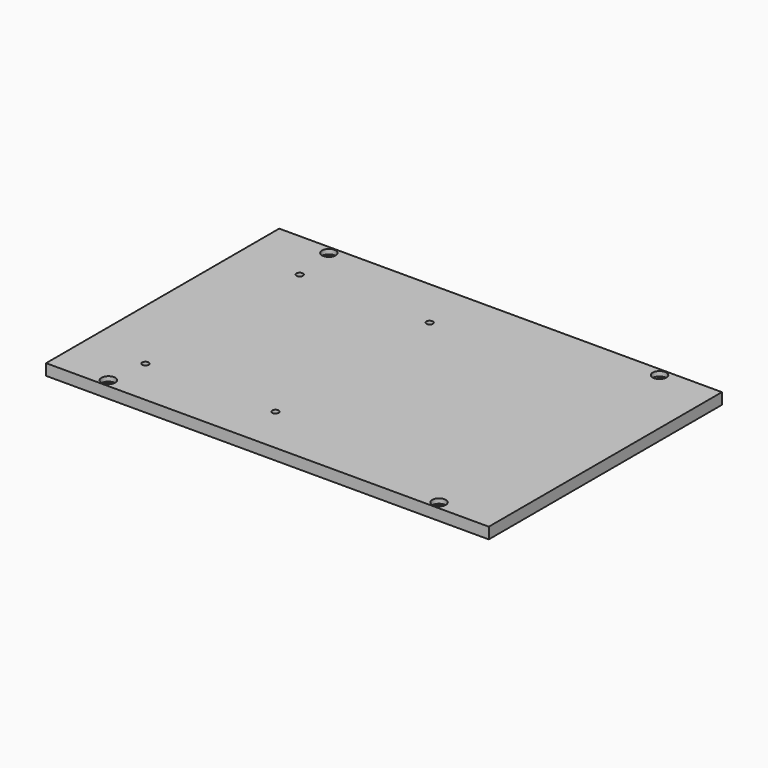
from build123d import *

# Parameters (mm, degrees)
SKETCH025_W         = 197.5
SKETCH025_H         = 130
PAD019_DEPTH        = 5
HOLE001_D           = 3.4
HOLE001_DEPTH       = 25
HOLE001_CBORE_D     = 6.1
HOLE001_CBORE_DEPTH = 2.1
HOLE002_D           = 2.9
HOLE002_DEPTH       = 25
HOLE002_CBORE_D     = 6.1
HOLE002_CBORE_DEPTH = 3


with BuildPart() as part:
    # Sketch025 → Pad019 (new body)
    with BuildSketch(Plane.XY):
        Rectangle(SKETCH025_W, SKETCH025_H)
    extrude(amount=PAD019_DEPTH)

    # Hole001
    with Locations(Plane.XY.offset(5)):
        with Locations((73.75, 61.459462), (-73.75, 61.446044), (-73.75, -61.5), (73.75, -61.5)):
            CounterBoreHole(HOLE001_D / 2, HOLE001_CBORE_D / 2, HOLE001_CBORE_DEPTH, depth=HOLE001_DEPTH)

    # Hole002
    with Locations(Plane(origin=(0, 0, 0), x_dir=(1, 0, 0), z_dir=(0, 0, -1))):
        with Locations((-13.502274, 43.646988), (-71.504372, 43.650288), (-13.509218, -42.353077), (-71.487556, -42.358528)):
            CounterBoreHole(HOLE002_D / 2, HOLE002_CBORE_D / 2, HOLE002_CBORE_DEPTH, depth=HOLE002_DEPTH)


with BuildPart() as part_1:
    # Body004 placement: moved
    add(part.part.moved(Location((-26, 0, 16))))


solid = part_1.part
